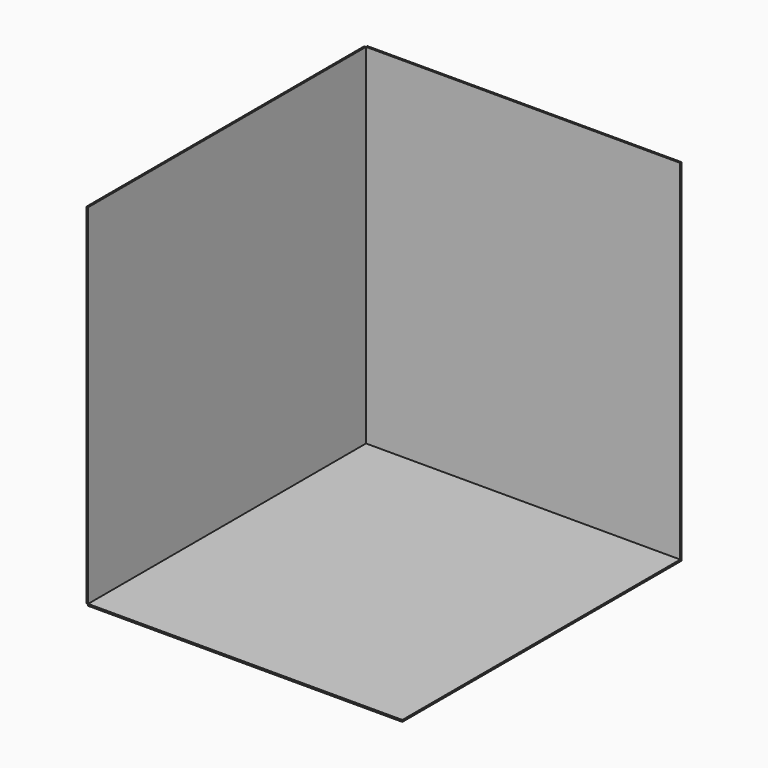
from build123d import *

# Parameters (mm, degrees)
F2_W     = 1800
F2_H     = 2000
F3_DEPTH = 10
F0_W     = 1800
F0_H     = 2000
F4_DEPTH = 10
F5_W     = 1990
F5_H     = 2000
F1_DEPTH = 10


with BuildPart() as f3:
    # F2 (on Front) → F3 (new body)
    with BuildSketch(Plane.XZ):
        with Locations((900, 1000)):
            Rectangle(F2_W, F2_H)
    extrude(amount=F3_DEPTH)

    # F0 (on Top) → F4 (join)
    with BuildSketch(Plane.XY):
        with Locations((900, -1000)):
            Rectangle(F0_W, F0_H)
    extrude(amount=-F4_DEPTH)


with BuildPart() as f1:
    # F5 (on face) → F1 (new body)
    with BuildSketch(Plane(origin=(0, 0, 0), x_dir=(0, -1, 0), z_dir=(-1, 0, 0))):
        with Locations((1005, 1000)):
            Rectangle(F5_W, F5_H)
    extrude(amount=F1_DEPTH)


solid = Compound([f3.part, f1.part])
